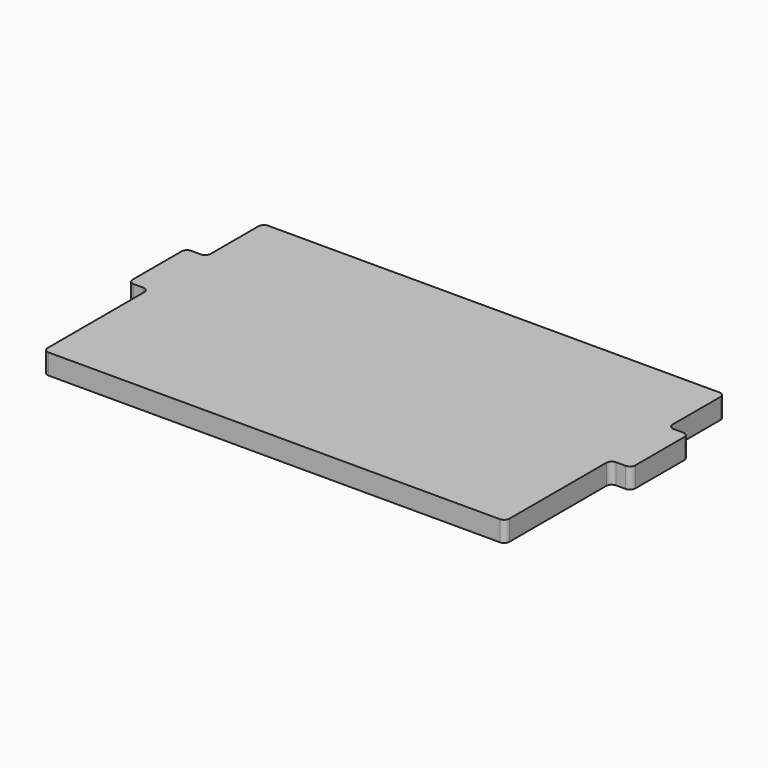
from build123d import *

# Parameters (mm, degrees)
F1_DEPTH = 1.5


with BuildPart() as f1:
    # F0 (on Top) → F1 (new body)
    with BuildSketch(Plane.XY):
        with BuildLine():
            Line((0, -9.3), (0, -0.4))
            ThreePointArc((0, -0.4), (0.117157, -0.117157), (0.4, 0))
            Line((0.4, 0), (1.1, 0))
            ThreePointArc((1.1, 0), (1.382843, 0.117157), (1.5, 0.4))
            Line((1.5, 0.4), (1.5, 4.9))
            ThreePointArc((1.5, 4.9), (1.382843, 5.182843), (1.1, 5.3))
            Line((1.1, 5.3), (0.4, 5.3))
            ThreePointArc((0.4, 5.3), (0.117157, 5.417157), (0, 5.7))
            Line((0, 5.7), (0, 10.1))
            ThreePointArc((0, 10.1), (-0.117157, 10.382843), (-0.4, 10.5))
            Line((-0.4, 10.5), (-33.6, 10.5))
            ThreePointArc((-33.6, 10.5), (-33.882843, 10.382843), (-34, 10.1))
            Line((-34, 10.1), (-34, 5.7))
            ThreePointArc((-34, 5.7), (-34.117157, 5.417157), (-34.4, 5.3))
            Line((-34.4, 5.3), (-35.1, 5.3))
            ThreePointArc((-35.1, 5.3), (-35.382843, 5.182843), (-35.5, 4.9))
            Line((-35.5, 4.9), (-35.5, 0.4))
            ThreePointArc((-35.5, 0.4), (-35.382843, 0.117157), (-35.1, 0))
            Line((-35.1, 0), (-34.4, 0))
            ThreePointArc((-34.4, 0), (-34.117157, -0.117157), (-34, -0.4))
            Line((-34, -0.4), (-34, -9.3))
            ThreePointArc((-34, -9.3), (-33.882843, -9.582843), (-33.6, -9.7))
            Line((-33.6, -9.7), (-0.4, -9.7))
            ThreePointArc((-0.4, -9.7), (-0.117157, -9.582843), (0, -9.3))
        make_face()
    extrude(amount=F1_DEPTH)


solid = f1.part
